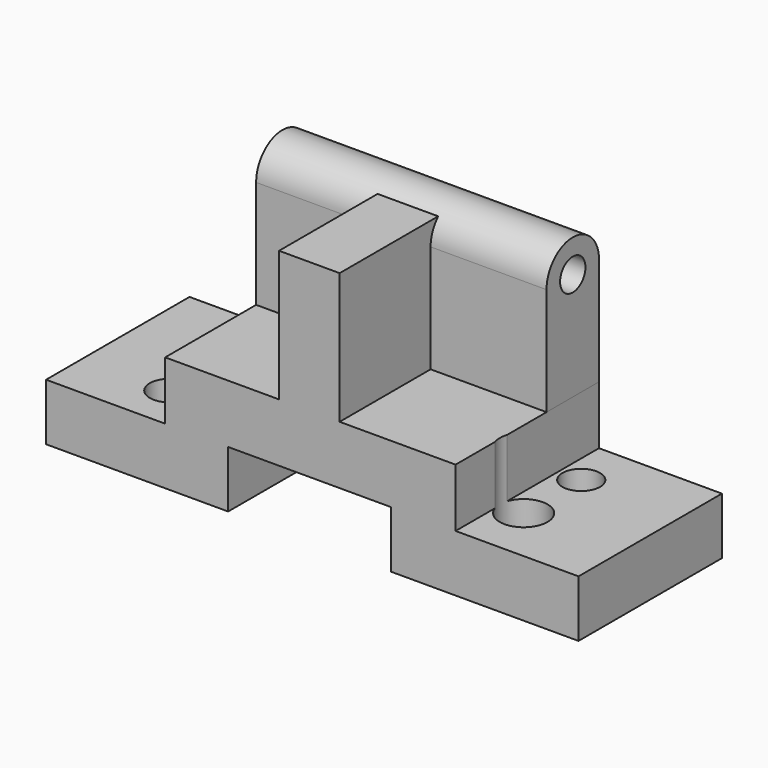
from build123d import *

# Parameters (mm, degrees)
F1_DEPTH = 25.4
F2_R     = 2.841654
F2_R_2   = 2.530663
F2_R_3   = 3.386715
F2_R_4   = 2.667783
F3_DEPTH = 25.4
F4_R     = 2.244401
F5_DEPTH = 41.148
F6_W     = 8.585986
F6_H     = 17.454494
F7_DEPTH = 18.542


with BuildPart() as f1:
    # F0 (on Front) → F1 (new body)
    with BuildSketch(Plane.XZ):
        Polygon((0, 8.055429), (0, 0), (25.799144, 0), (25.799144, 8.055429), (48.876859, 8.055429), (48.876859, 0), (75.438, 0), (75.438, 8.055429), (58.02086, 8.055429), (58.02086, 16.328571), (16.872857, 16.328571), (16.872857, 8.055429), align=None)
    extrude(amount=-F1_DEPTH)

    # F2 (on face) → F3 (cut)
    with BuildSketch(Plane(origin=(0, 0, 0), x_dir=(1, 0, 0), z_dir=(0, 0, -1))):
        with Locations((12.32334, -6.5187)):
            Circle(F2_R)
        with Locations((11.617891, -17.25835)):
            Circle(F2_R_2)
        with Locations((61.239045, -8.03216)):
            Circle(F2_R_3)
        with Locations((61.239045, -18.230911)):
            Circle(F2_R_4)
    extrude(amount=-F3_DEPTH, mode=Mode.SUBTRACT)

    # F4 (on face) → F5 (join)
    with BuildSketch(Plane(origin=(16.872857, 0, 0), x_dir=(0, -1, 0), z_dir=(-1, 0, 0))):
        with BuildLine():
            Line((-25.4, 31.604629), (-25.4, 16.328571))
            Line((-25.4, 16.328571), (-16.109549, 16.328571))
            Line((-16.109549, 16.328571), (-16.109549, 31.604629))
            ThreePointArc((-16.109549, 31.604629), (-20.754774, 36.249855), (-25.4, 31.604629))
        make_face()
        with Locations((-20.754774, 31.604629)):
            Circle(F4_R, mode=Mode.SUBTRACT)
    extrude(amount=-F5_DEPTH)

    # F6 (on face) → F7 (join)
    with BuildSketch(Plane.XY.offset(16.328571)):
        with Locations((37.301889, 8.727247)):
            Rectangle(F6_W, F6_H)
    extrude(amount=F7_DEPTH)


solid = f1.part
